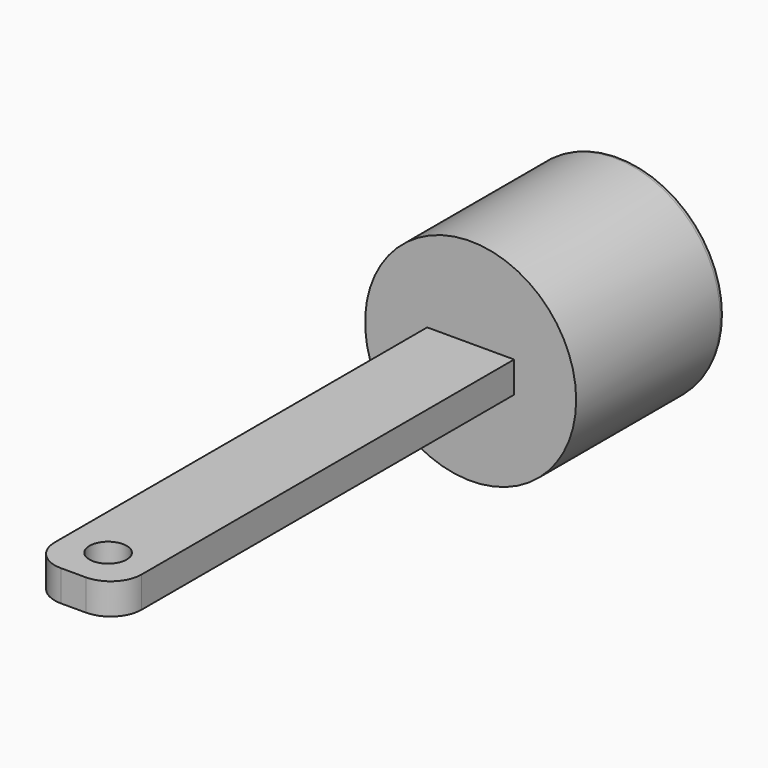
from build123d import *

# Parameters (mm, degrees)
F2_DEPTH = 2.5
F3_R     = 5
F4_R     = 1


with BuildPart() as f1:
    # F0 (on Top) → F1 (revolve)
    with BuildSketch(Plane.XY):
        Polygon((17, 83.3376), (0, 83.3376), (0, 53.3376), (7, 53.3376), (17, 53.3376), align=None)
    revolve(axis=Axis((0, 2.958108, 0), (0, -1, 0)))

    # F0 (on Top) → F2 (join, symmetric)
    with BuildSketch(Plane.XY):
        with BuildLine():
            Line((7, 53.3376), (0, 53.3376))
            Line((0, 53.3376), (0, -16.6624))
            ThreePointArc((0, -16.6624), (3, -19.6624), (0, -22.6624))
            Line((0, -22.6624), (0, -26.6624))
            Line((0, -26.6624), (7, -26.6624))
            Line((7, -26.6624), (7, 53.3376))
        make_face()
        with BuildLine():
            Line((0, -16.6624), (0, 53.3376))
            Line((0, 53.3376), (-7, 53.3376))
            Line((-7, 53.3376), (-7, -26.6624))
            Line((-7, -26.6624), (0, -26.6624))
            Line((0, -26.6624), (0, -22.6624))
            ThreePointArc((0, -22.6624), (-3, -19.6624), (0, -16.6624))
        make_face()
    extrude(amount=F2_DEPTH, both=True)

    # F3
    f3_edges = [f1.edges().sort_by_distance(p)[0] for p in [
        (7, -26.6624, 0),
        (-7, -26.6624, 0),
    ]]
    fillet(f3_edges, radius=F3_R)

    # F4
    f4_edges = [f1.edges().sort_by_distance(p)[0] for p in [
        (-17, 83.3376, 0),
    ]]
    fillet(f4_edges, radius=F4_R)


solid = f1.part
